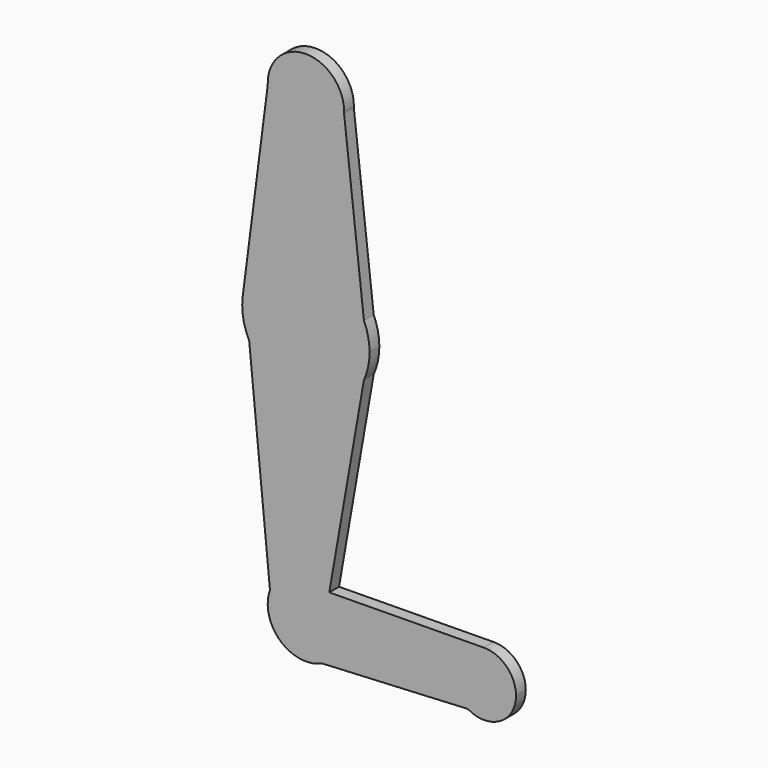
from build123d import *

# Parameters (mm, degrees)
F1_DEPTH = 3.048


with BuildPart() as f1:
    # F0 (on Front) → F1 (new body)
    with BuildSketch(Plane.XZ):
        with BuildLine():
            Line((9.525, 0), (0, 0))
            Line((0, 0), (0, 9.525))
            ThreePointArc((0, 9.525), (-5.473729162, 7.7951211704), (-8.95924033, 3.2338270994))
            ThreePointArc((-8.95924033, 3.2338270994), (-6.4472498387, -7.0113190283), (3.9721601425, -8.657226392))
            ThreePointArc((3.9721601425, -8.657226392), (8.0174949441, -5.1425090978), (9.525, 0))
        make_face()
        with BuildLine():
            Line((0, 9.525), (0, 0))
            Line((0, 0), (9.525, 0))
            ThreePointArc((9.525, 0), (8.5520017953, 4.1939110974), (5.8317946892, 7.5309890255))
            ThreePointArc((5.8317946892, 7.5309890255), (3.0816354856, 9.0127214388), (0, 9.525))
        make_face()
        with BuildLine():
            ThreePointArc((-8.95924033, 3.2338270994), (-5.473729162, 7.7951211704), (0, 9.525))
            Line((0, 9.525), (0, 47.625))
            ThreePointArc((0, 47.625), (-8.2836905365, 49.957618522), (-14.1330264303, 56.2699800194))
            Line((-14.1330264303, 56.2699800194), (-8.95924033, 3.2338270994))
        make_face()
        with BuildLine():
            Line((0, 47.625), (0, 9.525))
            ThreePointArc((0, 9.525), (3.0816354856, 9.0127214388), (5.8317946892, 7.5309890255))
            Line((5.8317946892, 7.5309890255), (14.4691487973, 56.9685868235))
            ThreePointArc((14.4691487973, 56.9685868235), (8.6118941245, 50.1639246932), (0, 47.625))
        make_face()
        with BuildLine():
            Line((36.5125, 0), (9.525, 0))
            ThreePointArc((9.525, 0), (8.0174949441, -5.1425090978), (3.9721601425, -8.657226392))
            Line((3.9721601425, -8.657226392), (40.3929904428, -6.8223588078))
            ThreePointArc((40.3929904428, -6.8223588078), (37.5504920607, -3.9243721084), (36.5125, 0))
        make_face()
        with BuildLine():
            ThreePointArc((5.8317946892, 7.5309890255), (8.5520017953, 4.1939110974), (9.525, 0))
            Line((9.525, 0), (36.5125, 0))
            ThreePointArc((36.5125, 0), (38.8078464582, 5.5830108061), (44.366360702, 7.9370593243))
            Line((44.366360702, 7.9370593243), (5.8317946892, 7.5309890255))
        make_face()
        with BuildLine():
            ThreePointArc((-14.1330264303, 56.2699800194), (-8.2836905365, 49.957618522), (0, 47.625))
            Line((0, 47.625), (0, 63.5))
            Line((0, 63.5), (0, 79.375))
            ThreePointArc((0, 79.375), (-10.4834895471, 75.4210767935), (-15.7448168762, 65.528883076))
            ThreePointArc((-15.7448168762, 65.528883076), (-15.6397954467, 60.7774233922), (-14.1330264303, 56.2699800194))
        make_face()
        with BuildLine():
            Line((0, 63.5), (0, 47.625))
            ThreePointArc((0, 47.625), (8.6118941245, 50.1639246932), (14.4691487973, 56.9685868235))
            ThreePointArc((14.4691487973, 56.9685868235), (15.5195580181, 60.1594994505), (15.875, 63.5))
            ThreePointArc((15.875, 63.5), (15.5195580181, 66.8405005495), (14.4691487973, 70.0314131765))
            ThreePointArc((14.4691487973, 70.0314131765), (8.6118941245, 76.8360753068), (0, 79.375))
            Line((0, 79.375), (0, 63.5))
        make_face()
        with BuildLine():
            ThreePointArc((44.366360702, 7.9370593243), (38.8078464582, 5.5830108061), (36.5125, 0))
            ThreePointArc((36.5125, 0), (37.5504920607, -3.9243721084), (40.3929904428, -6.8223588078))
            ThreePointArc((40.3929904428, -6.8223588078), (48.3743721084, -6.8995079393), (52.3875, 0))
            ThreePointArc((52.3875, 0), (50.0330108061, 5.6421535418), (44.366360702, 7.9370593243))
        make_face()
        with BuildLine():
            Line((0, 104.775), (0, 79.375))
            ThreePointArc((0, 79.375), (8.6118941245, 76.8360753068), (14.4691487973, 70.0314131765))
            Line((14.4691487973, 70.0314131765), (9.5153598494, 113.8715703832))
            ThreePointArc((9.5153598494, 113.8715703832), (6.581976637, 107.4150011946), (0, 104.775))
        make_face()
        with BuildLine():
            ThreePointArc((-15.7448168762, 65.528883076), (-10.4834895471, 75.4210767935), (0, 79.375))
            Line((0, 79.375), (0, 104.775))
            ThreePointArc((0, 104.775), (-6.581976637, 107.4150011946), (-9.5153598494, 113.8715703832))
            Line((-9.5153598494, 113.8715703832), (-15.7448168762, 65.528883076))
        make_face()
        with BuildLine():
            ThreePointArc((-9.5153598494, 113.8715703832), (-6.581976637, 107.4150011946), (0, 104.775))
            ThreePointArc((0, 104.775), (6.581976637, 107.4150011946), (9.5153598494, 113.8715703832))
            ThreePointArc((9.5153598494, 113.8715703832), (9.5225896574, 114.0857309699), (9.525, 114.3))
            ThreePointArc((9.525, 114.3), (-0.2142690301, 123.8225896574), (-9.5153598494, 113.8715703832))
        make_face()
    extrude(amount=F1_DEPTH)


solid = f1.part
